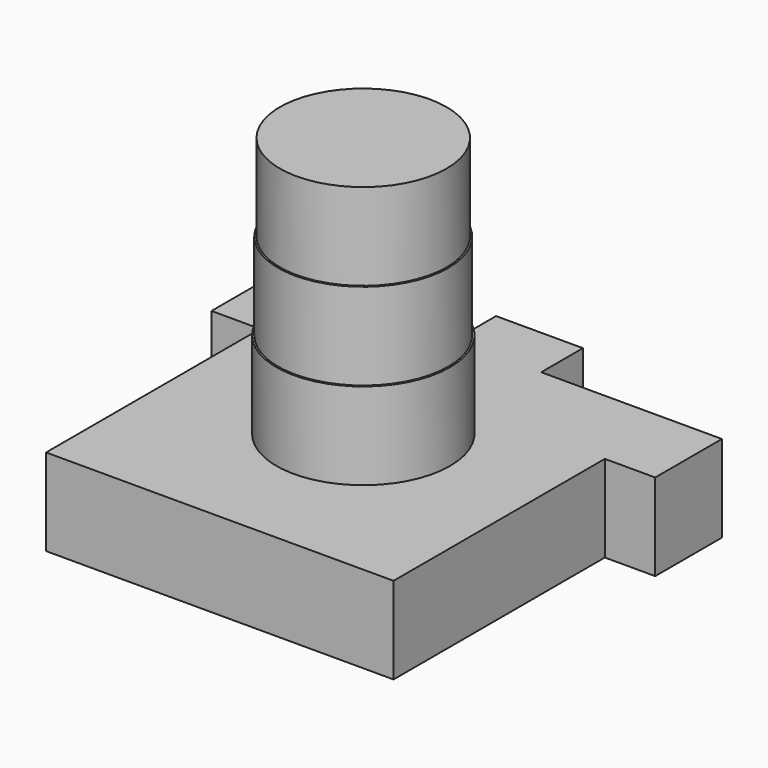
from build123d import *

# Parameters (mm, degrees)
F0_W     = 3.556
F0_H     = 5.842
F0_W_2   = 3.683
F0_H_2   = 6.096
F0_W_3   = 6.35
F0_H_3   = 3.81
F1_DEPTH = 6.35
F2_R     = 6.35
F3_DEPTH = 6.35
F4_R     = 6.223
F5_DEPTH = 6.35
F6_R     = 6.096
F7_DEPTH = 6.35


with BuildPart() as f1:
    # F0 (on Top) → F1 (new body)
    with BuildSketch(Plane.XY):
        Polygon((0, 19.558), (0, 0), (25.4, 0), (25.4, 19.304), (25.4, 25.4), (15.875, 25.4), (9.525, 25.4), (0, 25.4), align=None)
        with Locations((-1.778, 22.479)):
            Rectangle(F0_W, F0_H)
        with Locations((27.2415, 22.352)):
            Rectangle(F0_W_2, F0_H_2)
        with Locations((12.7, 27.305)):
            Rectangle(F0_W_3, F0_H_3)
    extrude(amount=F1_DEPTH)

    # F2 (on face) → F3 (join)
    with BuildSketch(Plane.XY.offset(6.35)):
        with Locations((12.7, 13.10474)):
            Circle(F2_R)
    extrude(amount=F3_DEPTH)

    # F4 (on face) → F5 (join)
    with BuildSketch(Plane.XY.offset(12.7)):
        with Locations((12.7, 13.10474)):
            Circle(F4_R)
    extrude(amount=F5_DEPTH)

    # F6 (on face) → F7 (join)
    with BuildSketch(Plane.XY.offset(19.05)):
        with Locations((12.7, 13.10474)):
            Circle(F6_R)
    extrude(amount=F7_DEPTH)


solid = f1.part
